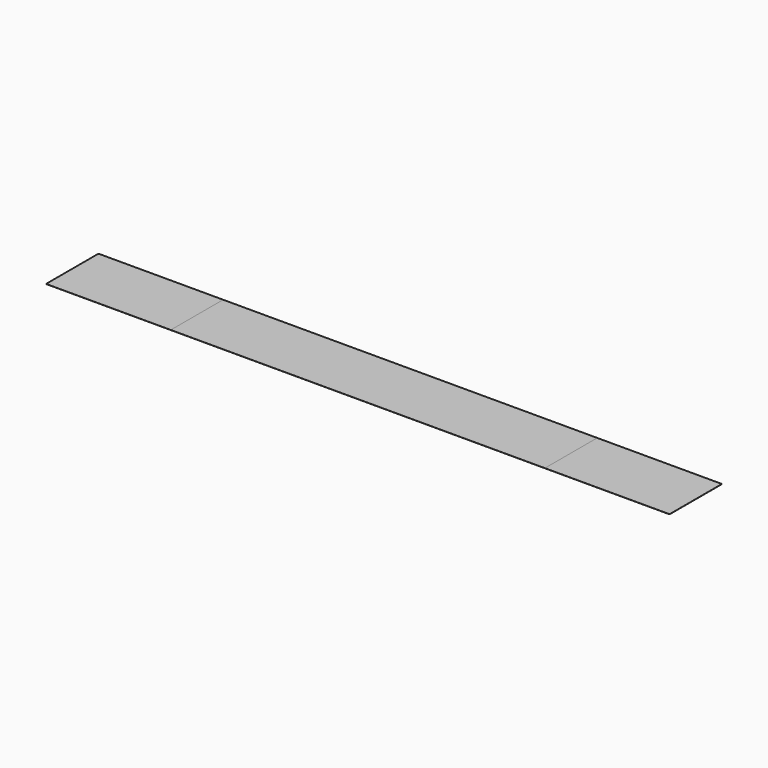
from build123d import *

# Parameters (mm, degrees)
F0_W     = 3048
F0_H     = 533.4
F1_DEPTH = 1.016
F0_W_2   = 1016
F2_DEPTH = 1.016


with BuildPart() as f1:
    # F0 (on Top) → F1 (new body)
    with BuildSketch(Plane.XY):
        with Locations((110.735954, -170.363741)):
            Rectangle(F0_W, F0_H)
    extrude(amount=F1_DEPTH)


with BuildPart() as f2:
    # F0 (on Top) → F2 (new body)
    with BuildSketch(Plane.XY):
        with Locations((-1921.264046, -170.363741)):
            Rectangle(F0_W_2, F0_H)
        with Locations((2142.735954, -170.363741)):
            Rectangle(F0_W_2, F0_H)
    extrude(amount=F2_DEPTH)


solid = Compound([f1.part, f2.part])
